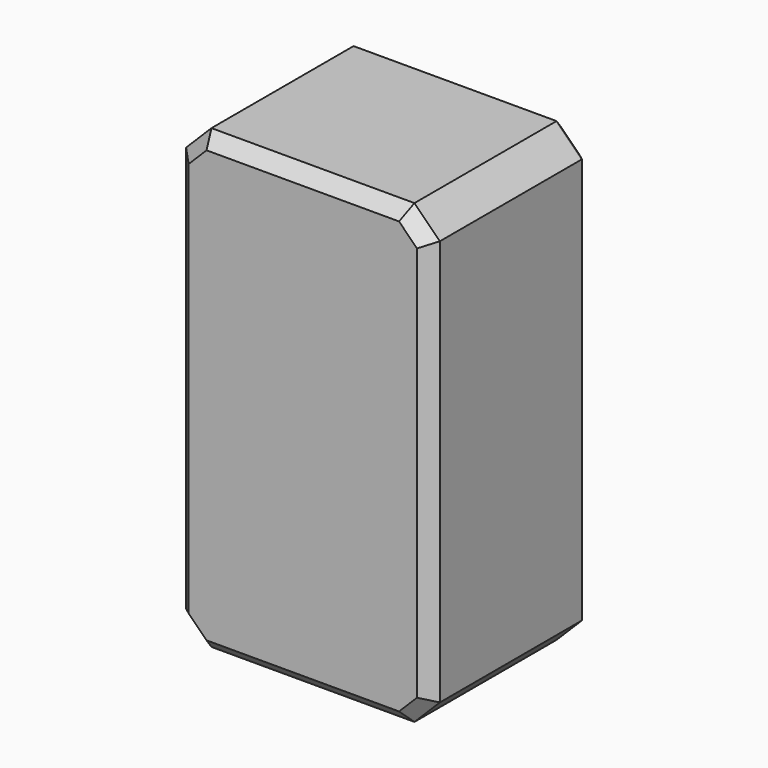
from build123d import *

# Parameters (mm, degrees)
F0_W     = 127
F0_H     = 228.6
F1_DEPTH = 50.8
F2_SIZE  = 12.7
F3_SIZE  = 6.35
F4_W     = 82.55
F4_H     = 69.85
F5_DEPTH = 25.4


with BuildPart() as f1:
    # F0 (on Front) → F1 (new body, symmetric)
    with BuildSketch(Plane.XZ):
        Rectangle(F0_W, F0_H)
    extrude(amount=F1_DEPTH, both=True)

    # F2
    f2_edges = [f1.edges().sort_by_distance(p)[0] for p in [
        (-63.5, 0, 114.3),
        (63.5, 0, 114.3),
        (63.5, 0, -114.3),
        (-63.5, 0, -114.3),
    ]]
    chamfer(f2_edges, length=F2_SIZE)

    # F3
    f3_edges = [f1.edges().sort_by_distance(p)[0] for p in [
        (0, -50.8, -114.3),
        (-57.15, -50.8, -107.95),
        (57.15, -50.8, -107.95),
        (-63.5, -50.8, 0),
        (63.5, -50.8, 0),
        (-57.15, -50.8, 107.95),
        (57.15, -50.8, 107.95),
        (0, -50.8, 114.3),
        (0, 50.8, -114.3),
        (-57.15, 50.8, -107.95),
        (57.15, 50.8, -107.95),
        (-63.5, 50.8, 0),
        (63.5, 50.8, 0),
        (-57.15, 50.8, 107.95),
        (57.15, 50.8, 107.95),
        (0, 50.8, 114.3),
    ]]
    chamfer(f3_edges, length=F3_SIZE)

    # F4 (on face) → F5 (cut)
    with BuildSketch(Plane(origin=(0, 0, -114.3), x_dir=(1, 0, 0), z_dir=(0, 0, -1))):
        Rectangle(F4_W, F4_H)
    extrude(amount=-F5_DEPTH, mode=Mode.SUBTRACT)


solid = f1.part
